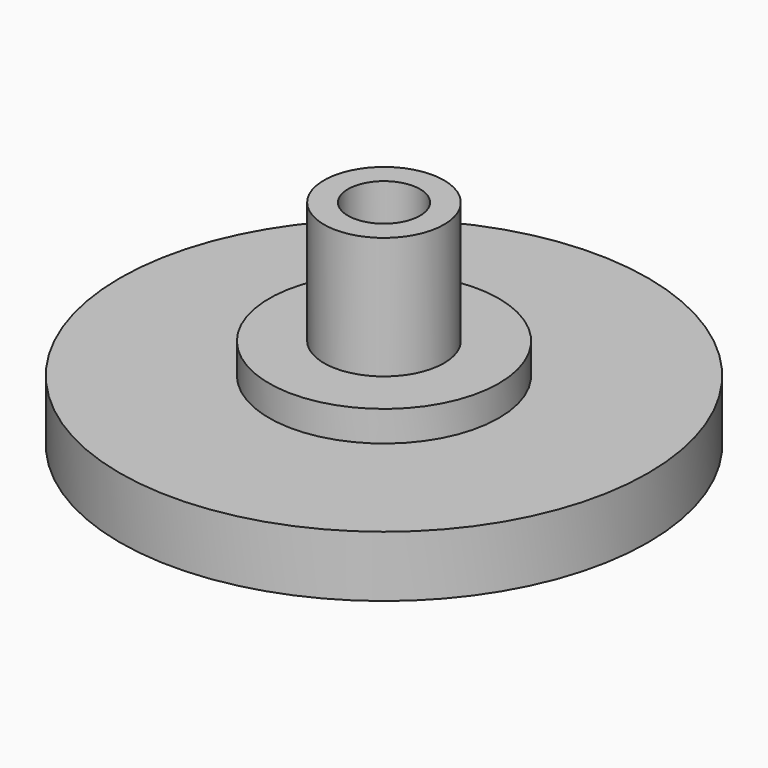
from build123d import *

# Parameters (mm, degrees)
F0_R     = 2.5
F1_DEPTH = 8.89
F0_R_2   = 4.786
F2_DEPTH = 3.81
F0_R_3   = 11
F3_DEPTH = 2.54
F4_R     = 1.5
F5_DEPTH = 7.62


with BuildPart() as f1:
    # F0 (on Top) → F1 (new body)
    with BuildSketch(Plane.XY):
        Circle(F0_R)
    extrude(amount=F1_DEPTH)

    # F0 (on Top) → F2 (join)
    with BuildSketch(Plane.XY):
        Circle(F0_R_2)
        Circle(F0_R, mode=Mode.SUBTRACT)
    extrude(amount=F2_DEPTH)

    # F0 (on Top) → F3 (join)
    with BuildSketch(Plane.XY):
        Circle(F0_R_3)
        Circle(F0_R_2, mode=Mode.SUBTRACT)
    extrude(amount=F3_DEPTH)

    # F4 (on face) → F5 (cut)
    with BuildSketch(Plane.XY.offset(8.89)):
        Circle(F4_R)
    extrude(amount=-F5_DEPTH, mode=Mode.SUBTRACT)


solid = f1.part
